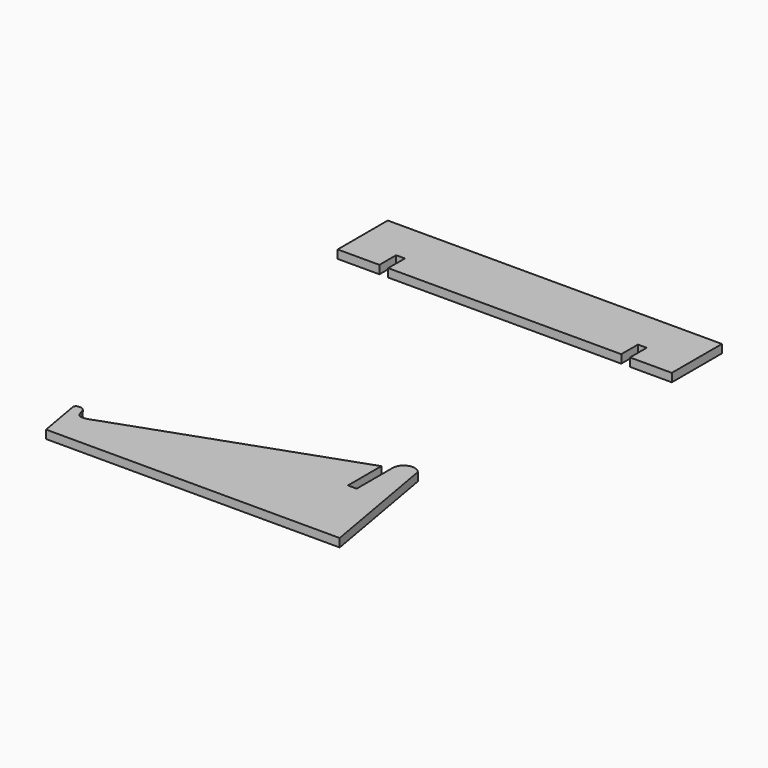
from build123d import *

# Parameters (mm, degrees)
PAD001_DEPTH = 2
PAD_DEPTH    = 2


with BuildPart() as cross_member:
    # Sketch001 → Pad001 (new body)
    with BuildSketch(Plane(origin=(37, 36, 0), x_dir=(1, 0, 0), z_dir=(0, 0, 1))):
        Polygon((40, 30), (40, 15), (30, 15), (30, 20), (27.9, 20), (27.9, 15), (-27.9, 15), (-27.9, 20), (-30, 20), (-30, 15), (-40, 15), (-40, 30), align=None)
    extrude(amount=PAD001_DEPTH)


with BuildPart() as body002:
    # Sketch → Pad (new body)
    with BuildSketch(Plane.XY):
        with BuildLine():
            Line((-1.76327, 10), (0, 0))
            Line((0, 0), (70.289809, 0))
            Line((70.289809, 0), (65, 30))
            ThreePointArc((65, 30), (62.055806, 30.831503), (60.289809, 28.333317))
            Line((60.289809, 28.333317), (60.289809, 17.59024))
            Line((60.289809, 17.59024), (58.189809, 17.59024))
            Line((58.189809, 17.59024), (58.189809, 27.59024))
            Line((58.189809, 27.59024), (5, 8.769231))
            add(Edge.make_bspline(
                [(-1.76327, 10), (-2.140167, 11.313534), (1.900666, 11.594519), (0.348558, 6.804392), (5, 8.769231)],
                knots=[0, 0, 0, 0, 0.5, 1, 1, 1, 1], degree=3))
        make_face()
    extrude(amount=PAD_DEPTH)


with BuildPart() as body002_1:
    # Body002 placement: moved
    add(body002.part.moved(Location((0, -40, 0))))


solid = Compound([cross_member.part, body002_1.part])
